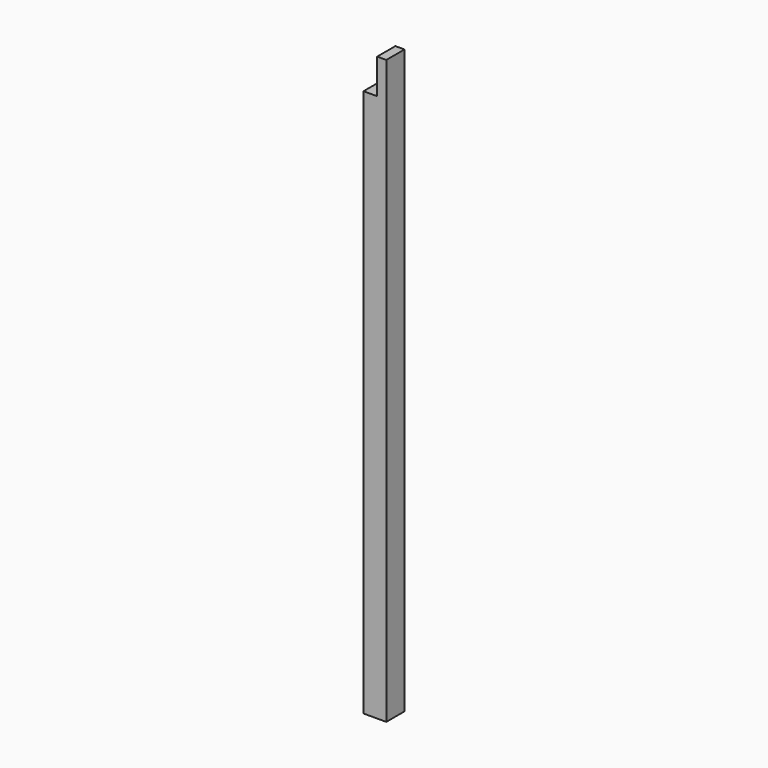
from build123d import *

# Parameters (mm, degrees)
F0_W     = 190.5
F0_H     = 190.5
F1_DEPTH = 4876.8
F2_W     = 114.3
F2_H     = 292.1
F3_DEPTH = 190.501


with BuildPart() as f1:
    # F0 (on Top) → F1 (new body)
    with BuildSketch(Plane.XY):
        Rectangle(F0_W, F0_H)
    extrude(amount=F1_DEPTH)

    # F2 (on face) → F3 (cut, through all)
    with BuildSketch(Plane.XZ.offset(95.25)):
        with Locations((-38.1, 4730.75)):
            Rectangle(F2_W, F2_H)
    extrude(amount=-F3_DEPTH, mode=Mode.SUBTRACT)


solid = f1.part
